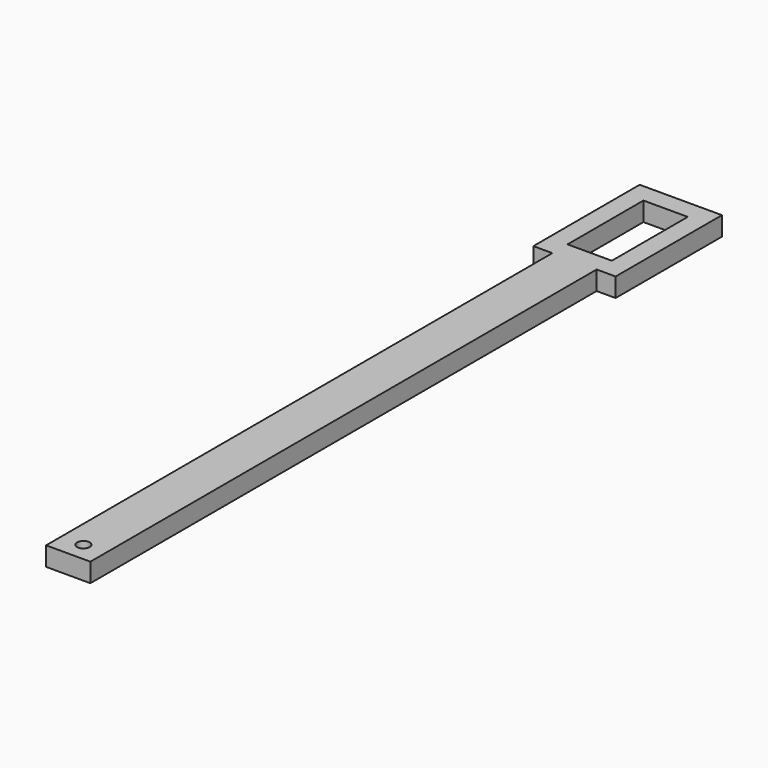
from build123d import *

# Parameters (mm, degrees)
F0_R      = 0.254
F0_W      = 1.778
F0_H      = 3.81
F1_DEPTH  = 0.762
F3_R      = 0.254
F1_FACE_W = 5.334
F1_FACE_H = 0.762
F4_DEPTH  = 0.254


with BuildPart() as f1:
    # F0 (on Top) → F1 (new body)
    with BuildSketch(Plane.XY):
        Polygon((0.889, -2.667), (1.651, -2.667), (1.651, 2.667), (-1.651, 2.667), (-1.651, -2.667), (-0.889, -2.667), (-0.889, -28.067), (0.889, -28.067), align=None)
        with Locations((0, -27.305)):
            Circle(F0_R, mode=Mode.SUBTRACT)
        Rectangle(F0_W, F0_H, mode=Mode.SUBTRACT)
    extrude(amount=F1_DEPTH)

    # F3 (on offset) + F1_face (on face) → F4 (cut)
    with BuildSketch(Plane.YZ.offset(0.889)):
        with Locations((1.524, 0.381)):
            Circle(F3_R)
    with BuildSketch(Plane(origin=(1.651, 0, 0.381), x_dir=(0, 1, 0), z_dir=(1, 0, 0))):
        Rectangle(F1_FACE_W, F1_FACE_H)
    extrude(amount=F4_DEPTH, mode=Mode.SUBTRACT)


solid = f1.part
